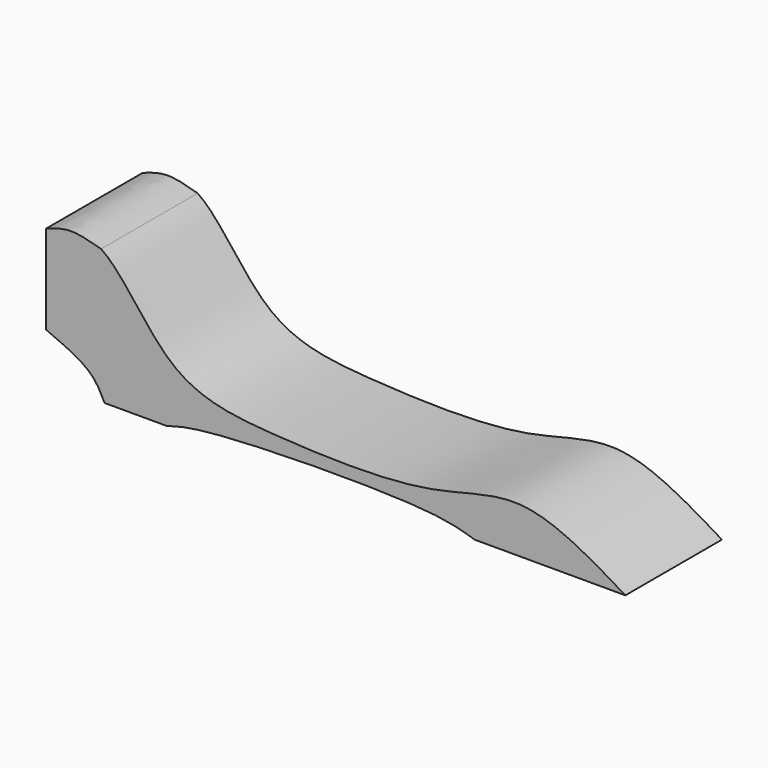
from build123d import *

# Parameters (mm, degrees)
F1_DEPTH = 63.5


with BuildPart() as f1:
    # F0 (on Front) → F1 (new body)
    with BuildSketch(Plane.XZ):
        with BuildLine():
            Line((248.3064383268, -23.9190738648), (327.6000506759, -23.9190738648))
            add(Edge.make_bspline(
                [(51.784705917, 46.8463032775), (64.3627199206, 38.2224960157), (86.242739761, -4.2142122955), (143.1899818673, -10.3956088976), (224.5018800017, -13.0365552228), (273.9602481654, 8.5484646767), (309.2548083769, -12.8149155063), (327.6000506759, -23.9190738648)],
                knots=[0.1230272713, 0.1230272713, 0.1230272713, 0.1230272713, 0.2929748368, 0.4614964871, 0.6655576891, 0.8261651316, 1, 1, 1, 1], degree=3))
            add(Edge.make_bspline(
                [(51.784705917, 46.8463032775), (46.1238504985, 48.4549538308), (35.4798819977, 51.4796602669), (26.8433541555, 48.323773124), (22.8000506759, 46.8463032775)],
                knots=[0, 0, 0, 0, 0.5318369195, 1, 1, 1, 1], degree=3))
            Line((22.8000506759, 46.8463032775), (22.8000506759, 0))
            add(Edge.make_bspline(
                [(53.6195226014, -23.9190738648), (51.6267524286, -19.8552994072), (46.9225734911, -10.2622602941), (31.6201229906, -3.752255873), (22.8000506759, 0)],
                knots=[0, 0, 0, 0, 0.4236170008, 1, 1, 1, 1], degree=3))
            Line((53.6195226014, -23.9190738648), (86.0673412681, -23.9190738648))
            add(Edge.make_bspline(
                [(86.0673412681, -23.9190738648), (91.4344469398, -22.3923479457), (108.7015088288, -17.4805626102), (222.9189133429, -15.8832854518), (242.0711760107, -21.9454569524), (248.3064383268, -23.9190738648)],
                knots=[0, 0, 0, 0, 0.2332370271, 0.7503705775, 1, 1, 1, 1], degree=3))
        make_face()
    extrude(amount=F1_DEPTH)


solid = f1.part
